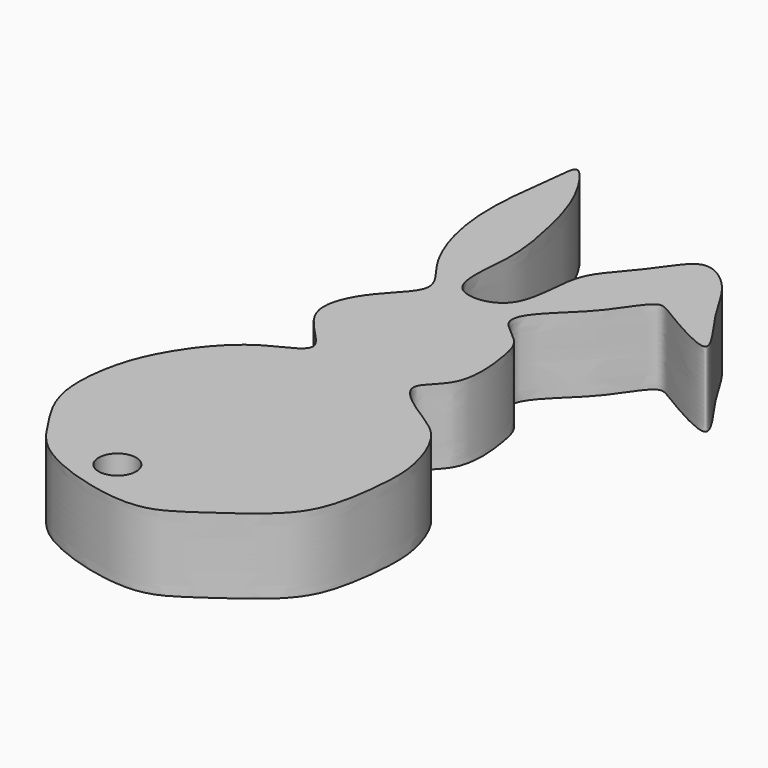
from build123d import *

# Parameters (mm, degrees)
F0_R     = 1.2514901775
F1_DEPTH = 5


with BuildPart() as f1:
    # F0 (on Top) → F1 (new body)
    with BuildSketch(Plane.XY):
        with BuildLine():
            add(Edge.make_bspline(
                [(-39.1580536962, 35.0581780076), (-38.2614332894, 35.9781207108), (-38.4872443587, 39.2723237146), (-37.1832311351, 41.070260921), (-35.4979298125, 42.94830166), (-33.9872878234, 45.4947896738), (-31.2714310883, 43.5335621517), (-30.1099627737, 40.8486107766), (-26.4143828879, 36.2359819751), (-31.8794873485, 39.429390019), (-33.0706240924, 40.2362655477), (-34.7108124332, 37.2332189991), (-37.1305177735, 35.3074070364), (-38.289757348, 33.3528362309), (-35.9846410039, 32.0926114603), (-35.5081691001, 30.2861508573), (-35.029724154, 26.2039699925), (-38.0062869906, 24.6110024934), (-34.8273074473, 22.3579836405), (-32.6568597536, 21.1525805902), (-31.3516853336, 17.6289678119), (-31.4577179898, 14.7936120907), (-32.0519857851, 10.5144788262), (-34.4858695979, 8.2913644895), (-37.4133763923, 6.2578252487), (-40.1889031241, 4.4460301481), (-47.395485972, 6.4806968882), (-49.2079419075, 9.3392506193), (-51.2779633615, 12.4230802186), (-50.9060214512, 16.7494899842), (-49.7623519446, 19.4519432274), (-48.1511119021, 21.8009128692), (-46.0939026785, 23.5913555254), (-42.70642312, 24.7854204369), (-47.3521980205, 27.7385882783), (-45.4367073121, 31.6556270432), (-42.6643072131, 33.8152770308), (-45.1089347526, 36.242511723), (-46.4352035117, 40.0860164192), (-46.6013740099, 43.8614102909), (-46.0079820802, 47.7783299548), (-45.8731432567, 49.7211642851), (-43.6072421217, 46.5198367436), (-42.6514993561, 42.5104564075), (-42.0303081697, 38.9774684425), (-43.0086169262, 34.1066253011), (-39.8951732707, 34.3018849667), (-39.1580536962, 35.0581780076)],
                knots=[0, 0, 0, 0, 0.0257570166, 0.0445138776, 0.06484204, 0.0843164925, 0.1040168842, 0.1282574734, 0.1511582401, 0.1766890034, 0.1910547811, 0.2124535222, 0.2357718507, 0.2521705472, 0.2703002789, 0.2878717074, 0.3125385039, 0.3315008328, 0.3528340277, 0.3736375307, 0.3969005259, 0.4186687855, 0.4441755088, 0.4668243002, 0.4902924437, 0.5128669319, 0.5459261749, 0.5691126263, 0.59277012, 0.6184943436, 0.640169039, 0.6610607373, 0.6827511135, 0.7016604874, 0.7259136871, 0.7504679017, 0.7719477308, 0.7926371358, 0.8181474756, 0.8431826159, 0.8688041272, 0.8813898907, 0.9025312198, 0.9292228204, 0.9539426934, 0.9788249286, 1, 1, 1, 1], degree=3))
        make_face()
        with Locations((-43.6186604202, 8.143465966)):
            Circle(F0_R, mode=Mode.SUBTRACT)
    extrude(amount=F1_DEPTH)


solid = f1.part
